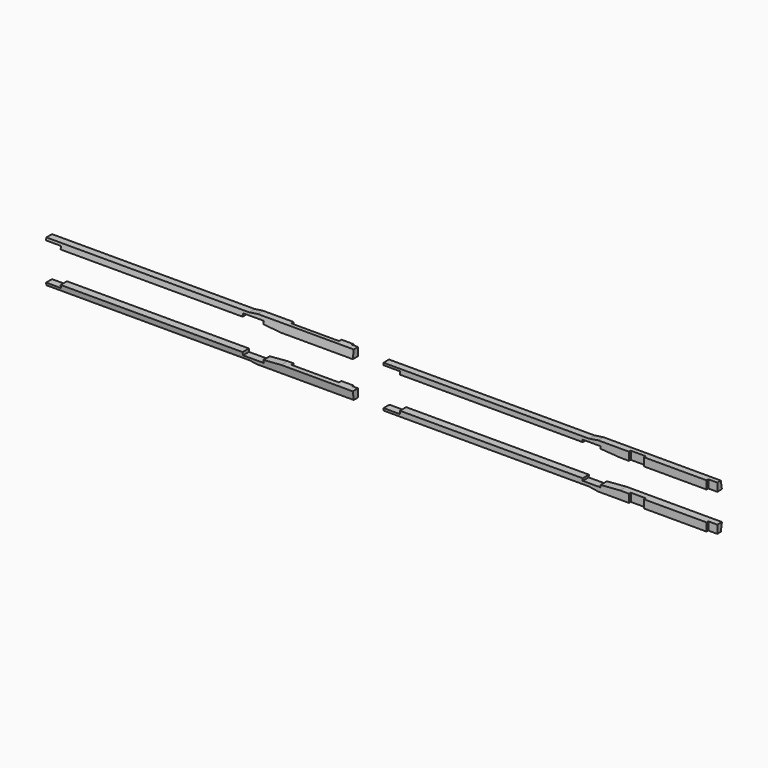
from build123d import *

# Parameters (mm, degrees)
F1_DEPTH  = 17.272
F3_DEPTH  = 654.05
F4_W      = 101.6
F4_H      = 6.35
F4_W_2    = 12.7
F4_H_2    = 3.175
F5_DEPTH  = 17.272
F10_DEPTH = 17.272
F12_W     = 19.05
F12_H     = 4.7625
F12_W_2   = 31.75
F13_DEPTH = 17.272
F15_DEPTH = 711.2


with BuildPart() as f1:
    # F0 (on Front) → F1 (new body)
    with BuildSketch(Plane.XZ):
        Polygon((-505.139959, -1.403909), (-536.889959, -1.403909), (-536.889959, -6.737909), (-105.089959, -6.737909), (-87.445114, -9.313571), (117.160041, -9.313571), (117.160041, 7.958429), (-22.539959, 7.958429), (-35.239959, 7.958429), (-70.799959, 4.946091), (-73.339959, 4.946091), (-73.339959, -1.403909), (-117.789959, -1.403909), (-117.789959, 4.946091), (-505.139959, 4.946091), align=None)
    extrude(amount=F1_DEPTH)

    # F2 (on face) → F3 (cut)
    with BuildSketch(Plane.YZ.offset(117.160041)):
        Polygon((-14.732, -9.313571), (-17.272, 7.958429), (-17.272, -9.313571), align=None)
    extrude(amount=-F3_DEPTH, mode=Mode.SUBTRACT)

    # F4 (on face) → F5 (cut)
    with BuildSketch(Plane.XY.offset(7.958429)):
        with Locations((28.260041, -3.175)):
            Rectangle(F4_W, F4_H)
        with Locations((110.810041, -1.5875)):
            Rectangle(F4_W_2, F4_H_2)
    extrude(amount=-F5_DEPTH, mode=Mode.SUBTRACT)


with BuildPart() as f1_1:
    # F6: moved
    add(f1.part.moved(Location((0, 0, 25.4))))


with BuildPart() as f7_1:
    # F7: instance of F1
    add(f1_1.part.mirror(Plane.XY))


with BuildPart() as f1_2:
    # F8: moved
    add(f1_1.part.moved(Location((-152.4, 0, 0))))


with BuildPart() as f7_1_1:
    # F8: moved
    add(f7_1.part.moved(Location((-152.4, 0, 0))))


with BuildPart() as f10:
    # F9 (on Front) → F10 (new body)
    with BuildSketch(Plane.XZ):
        Polygon((501.986169, 28.157279), (686.136169, 28.157279), (686.136169, 45.429279), (501.986169, 45.429279), (482.936169, 45.429279), (441.614807, 42.381279), (441.614807, 37.618779), (403.504163, 37.618779), (403.504163, 42.381279), (14.320281, 42.381279), (14.320281, 36.067256), (-20.583367, 36.067256), (-20.604719, 31.304756), (14.320281, 31.304756), (416.730762, 31.304756), (436.423442, 28.157279), (441.661169, 28.157279), align=None)
    extrude(amount=F10_DEPTH)


with BuildPart() as f10_1:
    # F11: moved
    add(f10.part.moved(Location((50.8, 0, -12.7))))

    # F12 (on face) → F13 (cut)
    with BuildSketch(Plane(origin=(0, 0, 15.457279), x_dir=(1, 0, 0), z_dir=(0, 0, -1))):
        with Locations((727.411169, 14.89075)):
            Rectangle(F12_W, F12_H)
        with Locations((568.661169, 14.89075)):
            Rectangle(F12_W_2, F12_H)
    extrude(amount=-F13_DEPTH, mode=Mode.SUBTRACT)

    # F14 (on face) → F15 (cut)
    with BuildSketch(Plane.YZ.offset(736.936169)):
        Polygon((0, 15.457279), (0, 33.481069), (-3.048, 15.457279), align=None)
    extrude(amount=-F15_DEPTH, mode=Mode.SUBTRACT)


with BuildPart() as f16_1:
    # F16: instance of F10
    add(f10_1.part.mirror(Plane.XY))


with BuildPart() as f7_1_2:
    # F17: moved
    add(f7_1_1.part.moved(Location((0, 0, 127))))


with BuildPart() as f16_1_1:
    # F18: moved
    add(f16_1.part.moved(Location((0, 0, 127))))


solid = Compound([f1_2.part, f10_1.part, f7_1_2.part, f16_1_1.part])
